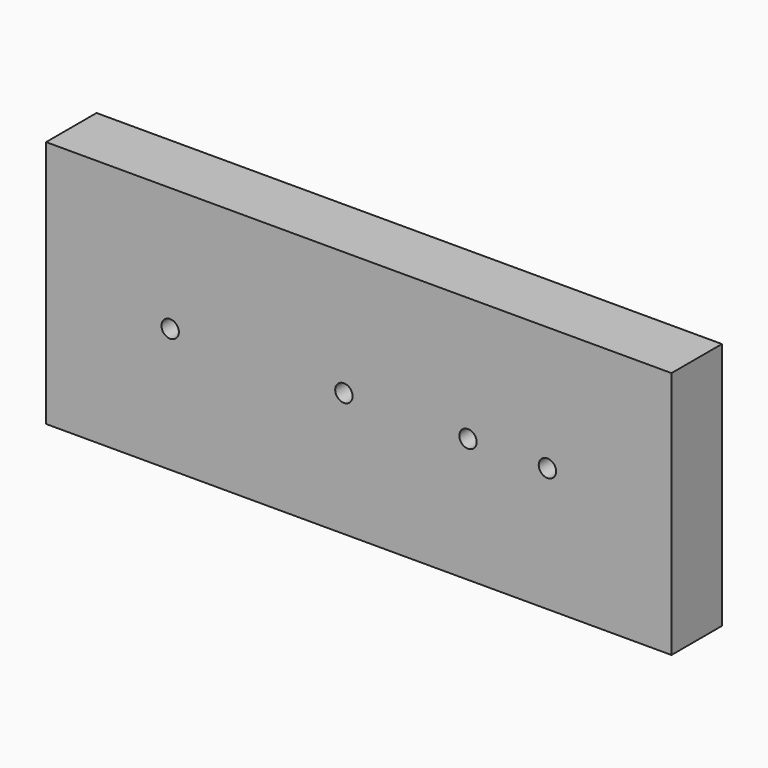
from build123d import *

# Parameters (mm, degrees)
F0_W     = 126
F0_H     = 50
F0_R     = 1.75
F1_DEPTH = 12.7


with BuildPart() as f1:
    # F0 (on Front) → F1 (new body)
    with BuildSketch(Plane.XZ):
        with Locations((-2.708295, 9.532124)):
            Rectangle(F0_W, F0_H)
        with Locations((-40.708295, 9.532124)):
            Circle(F0_R, mode=Mode.SUBTRACT)
        with BuildLine():
            ThreePointArc((-3.958295, 9.532124), (-5.708295, 7.782124), (-7.458295, 9.532124))
            ThreePointArc((-7.458295, 9.532124), (-5.708295, 11.282124), (-3.958295, 9.532124))
        make_face(mode=Mode.SUBTRACT)
        with BuildLine():
            ThreePointArc((21.041705, 9.532124), (19.291705, 7.782124), (17.541705, 9.532124))
            ThreePointArc((17.541705, 9.532124), (19.291705, 11.282124), (21.041705, 9.532124))
        make_face(mode=Mode.SUBTRACT)
        with BuildLine():
            ThreePointArc((37.041705, 9.532124), (35.291705, 7.782124), (33.541705, 9.532124))
            ThreePointArc((33.541705, 9.532124), (35.291705, 11.282124), (37.041705, 9.532124))
        make_face(mode=Mode.SUBTRACT)
    extrude(amount=F1_DEPTH)


solid = f1.part
